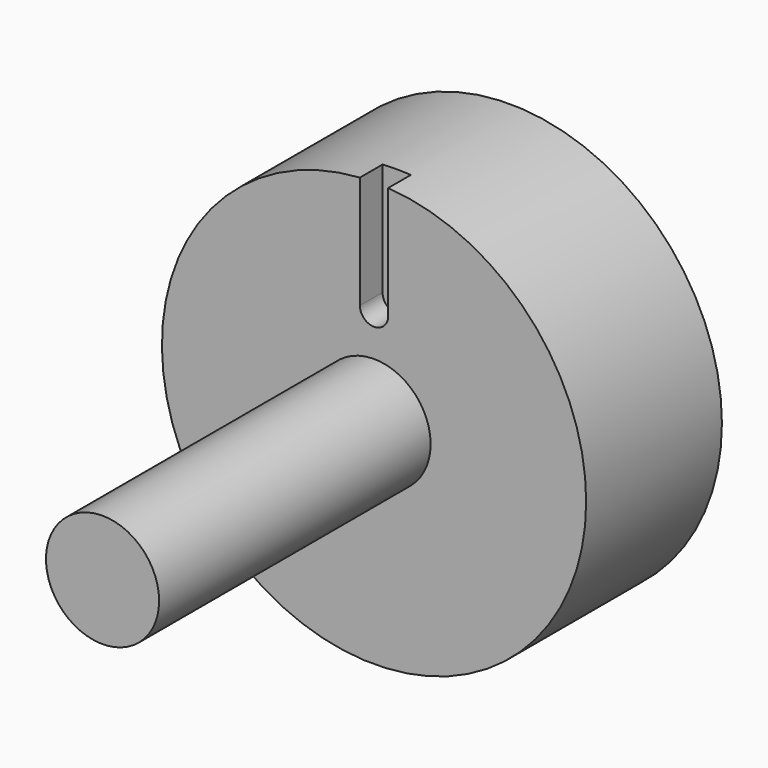
from build123d import *

# Parameters (mm, degrees)
F0_R     = 7.5
F1_DEPTH = 6
F2_R     = 2
F3_DEPTH = 12
F4_R     = 2.3
F5_DEPTH = 2
F7_DEPTH = 1


with BuildPart() as f1:
    # F0 (on Front) → F1 (new body)
    with BuildSketch(Plane.XZ):
        Circle(F0_R)
    extrude(amount=F1_DEPTH)

    # F2 (on face) → F3 (join)
    with BuildSketch(Plane.XZ.offset(6)):
        Circle(F2_R)
    extrude(amount=F3_DEPTH)

    # F4 (on face) → F5 (cut)
    with BuildSketch(Plane(origin=(0, 0, 0), x_dir=(-1, 0, 0), z_dir=(0, 1, 0))):
        with Locations((-4.5, 0)):
            Circle(F4_R)
        with Locations((4.5, 0)):
            Circle(F4_R)
    extrude(amount=-F5_DEPTH, mode=Mode.SUBTRACT)

    # F6 (on face) → F7 (cut)
    with BuildSketch(Plane.XZ.offset(6)):
        with BuildLine():
            Line((0.5, 3.5), (0.5, 7.4833147735))
            ThreePointArc((0.5, 7.4833147735), (0, 7.5), (-0.5, 7.4833147735))
            Line((-0.5, 7.4833147735), (-0.5, 3.5))
            ThreePointArc((-0.5, 3.5), (0, 3), (0.5, 3.5))
        make_face()
    extrude(amount=-F7_DEPTH, mode=Mode.SUBTRACT)


solid = f1.part
